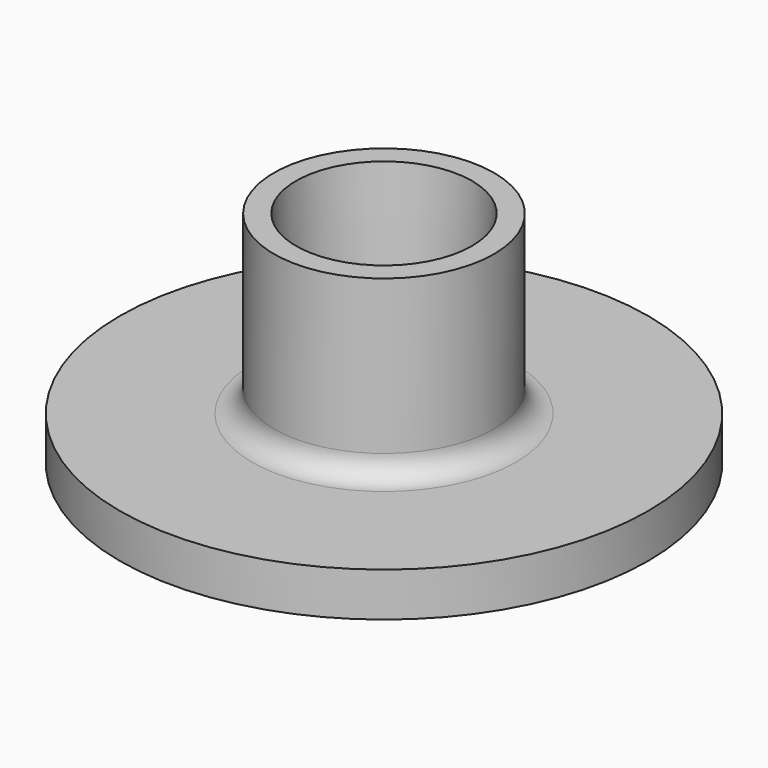
from build123d import *

# Parameters (mm, degrees)
F0_R     = 6
F0_R_2   = 1.75
F4_DEPTH = 1
F5_R     = 0.5


with BuildPart() as f3:
    # F2 (on Front) → F3 (revolve)
    with BuildSketch(Plane.XZ):
        Polygon((1.75, 0), (2.5, 0), (2.5, 5), (2, 5), align=None)
    revolve(axis=Axis((0, 0, 2), (0, 0, 1)))

    # F0 (on Top) → F4 (join)
    with BuildSketch(Plane.XY):
        Circle(F0_R)
        Circle(F0_R_2, mode=Mode.SUBTRACT)
    extrude(amount=F4_DEPTH)

    # F5
    f5_edges = [f3.edges().sort_by_distance(p)[0] for p in [
        (-2.5, 0, 1),
    ]]
    fillet(f5_edges, radius=F5_R)


solid = f3.part
